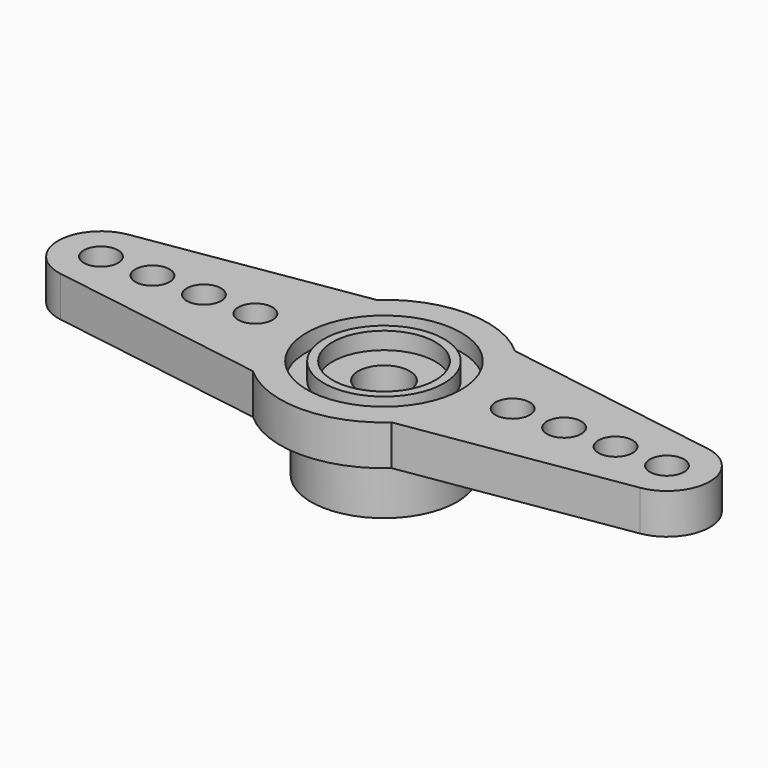
from build123d import *

# Parameters (mm, degrees)
F1_DEPTH = 2.35
F2_R     = 4.25
F2_R_2   = 2.75
F3_DEPTH = 3.5
F4_R     = 1.5
F4_R_2   = 1
F5_DEPTH = 25
F6_R     = 4.5
F6_R_2   = 3.5
F6_R_3   = 3
F6_R_4   = 1.5
F7_DEPTH = 1


with BuildPart() as f1:
    # F0 (on Top) → F1 (new body)
    with BuildSketch(Plane.XY):
        with BuildLine():
            Line((-16.890331, -2.46934), (-4.043822, -4.5))
            ThreePointArc((-4.043822, -4.5), (0, -6.05), (4.043822, -4.5))
            Line((4.043822, -4.5), (16.890331, -2.46934))
            ThreePointArc((16.890331, -2.46934), (19, 0), (16.890331, 2.46934))
            Line((16.890331, 2.46934), (4.043822, 4.5))
            ThreePointArc((4.043822, 4.5), (0, 6.05), (-4.043822, 4.5))
            Line((-4.043822, 4.5), (-16.890331, 2.46934))
            ThreePointArc((-16.890331, 2.46934), (-19, 0), (-16.890331, -2.46934))
        make_face()
    extrude(amount=F1_DEPTH)

    # F2 (on face) → F3 (join)
    with BuildSketch(Plane(origin=(0, 0, 0), x_dir=(1, 0, 0), z_dir=(0, 0, -1))):
        Circle(F2_R)
        Circle(F2_R_2, mode=Mode.SUBTRACT)
    extrude(amount=F3_DEPTH)

    # F4 (on face) → F5 (cut)
    with BuildSketch(Plane(origin=(0, 0, 0), x_dir=(1, 0, 0), z_dir=(0, 0, -1))):
        Circle(F4_R)
        with Locations((-7.5, 0)):
            Circle(F4_R_2)
        with Locations((-10.5, 0)):
            Circle(F4_R_2)
        with Locations((-13.5, 0)):
            Circle(F4_R_2)
        with Locations((-16.5, 0)):
            Circle(F4_R_2)
        with Locations((7.5, 0)):
            Circle(F4_R_2)
        with Locations((10.5, 0)):
            Circle(F4_R_2)
        with Locations((13.5, 0)):
            Circle(F4_R_2)
        with Locations((16.5, 0)):
            Circle(F4_R_2)
    extrude(amount=-F5_DEPTH, mode=Mode.SUBTRACT)

    # F6 (on face) → F7 (cut)
    with BuildSketch(Plane.XY.offset(2.35)):
        Circle(F6_R)
        Circle(F6_R_2, mode=Mode.SUBTRACT)
        Circle(F6_R_3)
        Circle(F6_R_4, mode=Mode.SUBTRACT)
    extrude(amount=-F7_DEPTH, mode=Mode.SUBTRACT)


solid = f1.part
